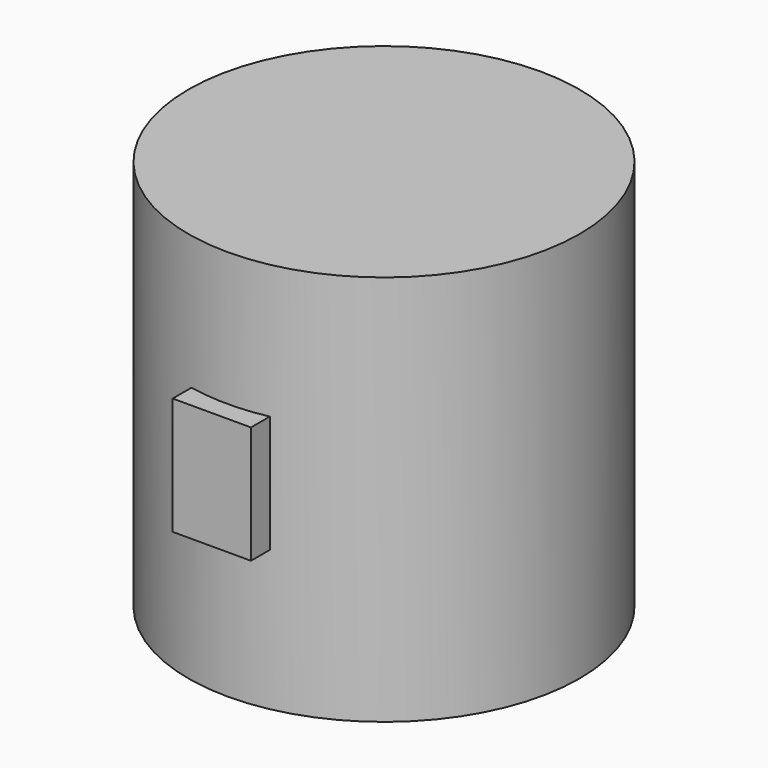
from build123d import *

# Parameters (mm, degrees)
F0_R     = 50
F1_DEPTH = 100
F2_W     = 20
F2_H     = 30
F3_DEPTH = 55


with BuildPart() as f1:
    # F0 (on Top) → F1 (new body)
    with BuildSketch(Plane.XY):
        Circle(F0_R)
    extrude(amount=F1_DEPTH)

    # F2 (on Front) → F3 (join)
    with BuildSketch(Plane.XZ):
        with Locations((0, 50.83777)):
            Rectangle(F2_W, F2_H)
    extrude(amount=F3_DEPTH)


solid = f1.part
